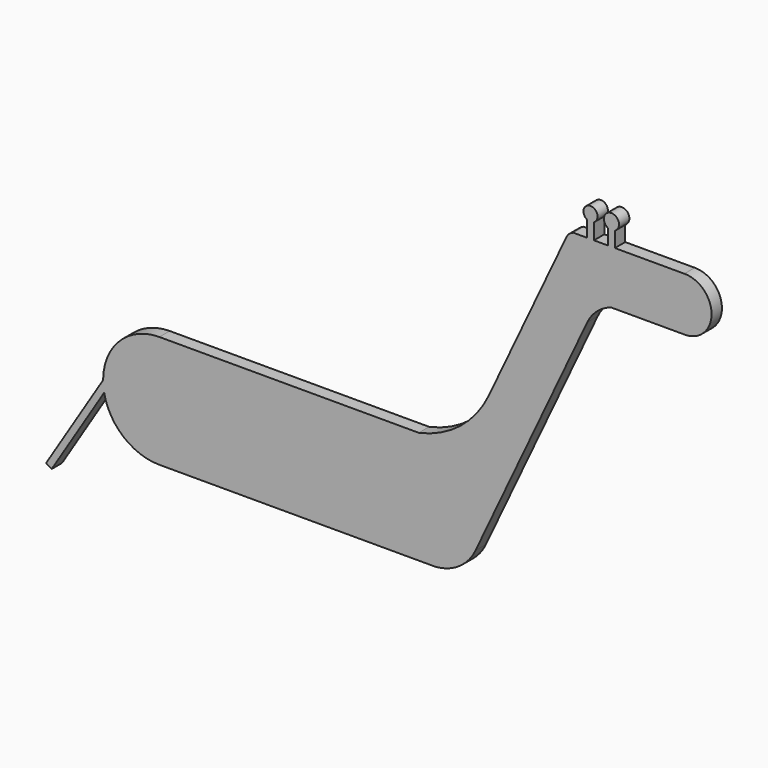
from build123d import *

# Parameters (mm, degrees)
F1_DEPTH = 5


with BuildPart() as f1:
    # F0 (on Front) → F1 (new body)
    with BuildSketch(Plane.XZ):
        with BuildLine():
            ThreePointArc((-21.294184, 17.551954), (-13.797766, 4.953552), (0, 0))
            Line((0, 0), (106.267641, 0))
            ThreePointArc((106.267641, 0), (115.540033, 3.132915), (121.908809, 10.564678))
            Line((121.908809, 10.564678), (165.010172, 102.045093))
            ThreePointArc((165.010172, 102.045093), (168.779525, 107.022182), (174.237922, 110.052915))
            Line((174.237922, 110.052915), (202.599898, 110.052915))
            ThreePointArc((202.599898, 110.052915), (212.919188, 120.454768), (202.435434, 130.690841))
            Line((202.435434, 130.690841), (175.641969, 130.690841))
            Line((175.641969, 130.690841), (175.641969, 136.623844))
            ThreePointArc((175.641969, 136.623844), (174.319223, 142.132337), (172.996477, 136.623844))
            Line((172.996477, 136.623844), (172.996477, 130.690841))
            Line((172.996477, 130.690841), (167.573189, 130.690841))
            Line((167.573189, 130.690841), (167.573189, 136.849371))
            ThreePointArc((167.573189, 136.849371), (166.250443, 141.933334), (164.927697, 136.849371))
            Line((164.927697, 136.849371), (164.927697, 130.690841))
            Line((164.927697, 130.690841), (159.650013, 130.690841))
            ThreePointArc((159.650013, 130.690841), (158.046662, 129.774769), (156.937808, 128.298162))
            Line((156.937808, 128.298162), (127.013636, 64.785655))
            ThreePointArc((127.013636, 64.785655), (116.015141, 50.919557), (100, 43.386245))
            Line((100, 43.386245), (0, 43.386245))
            ThreePointArc((0, 43.386245), (-15.339354, 37.032476), (-21.693122, 21.693122))
            Line((-21.693122, 21.693122), (-43.681762, -13.616841))
            Line((-43.681762, -13.616841), (-41.536074, -14.953029))
            Line((-41.536074, -14.953029), (-21.294184, 17.551954))
        make_face()
    extrude(amount=F1_DEPTH)


solid = f1.part
